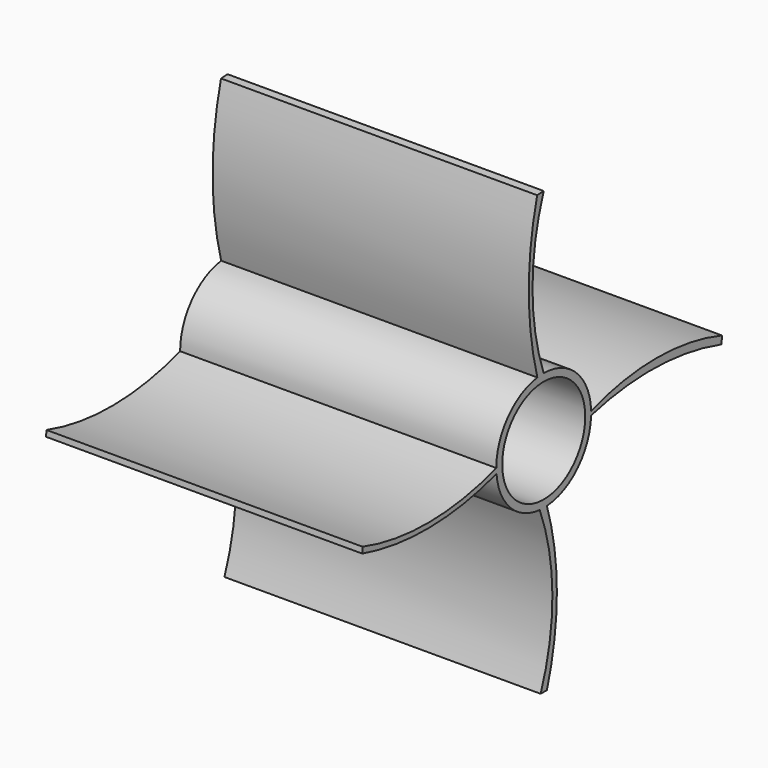
from build123d import *

# Parameters (mm, degrees)
F0_R      = 19.05
F1_DEPTH  = 101.6
F2_R      = 16.672802
F3_DEPTH  = 101.6
F5_DEPTH  = 101.6
F7_DEPTH  = 101.6
F9_DEPTH  = 101.6
F11_DEPTH = 101.6


with BuildPart() as f1:
    # F0 (on Right) → F1 (new body)
    with BuildSketch(Plane.YZ):
        Circle(F0_R)
    extrude(amount=F1_DEPTH)

    # F2 (on face) → F3 (cut)
    with BuildSketch(Plane.YZ.offset(101.6)):
        Circle(F2_R)
    extrude(amount=-F3_DEPTH, mode=Mode.SUBTRACT)

    # F4 (on face) → F5 (join)
    with BuildSketch(Plane(origin=(0, 0, 0), x_dir=(0, -1, 0), z_dir=(-1, 0, 0))):
        with BuildLine():
            Line((0, 19.05), (2.557494, 18.877545))
            ThreePointArc((2.557494, 18.877545), (5.998328, 44.666261), (2.622403, 70.463553))
            Line((2.622403, 70.463553), (0, 70.597149))
            ThreePointArc((0, 70.597149), (4.50405, 44.823575), (0, 19.05))
        make_face()
    extrude(amount=-F5_DEPTH)

    # F6 (on face) → F7 (join)
    with BuildSketch(Plane.YZ.offset(101.6)):
        with BuildLine():
            Line((-1.23902, -71.141139), (1.281651, -71.141139))
            ThreePointArc((1.281651, -71.141139), (5.279028, -45.073988), (1.281651, -19.006837))
            Line((1.281651, -19.006837), (-1.612408, -18.98164))
            ThreePointArc((-1.612408, -18.98164), (3.484779, -45.026237), (-1.23902, -71.141139))
        make_face()
    extrude(amount=-F7_DEPTH)

    # F8 (on face) → F9 (join)
    with BuildSketch(Plane(origin=(0, 0, 0), x_dir=(0, -1, 0), z_dir=(-1, 0, 0))):
        with BuildLine():
            Line((18.974914, 0), (18.974914, -1.689716))
            ThreePointArc((18.974914, -1.689716), (45.881311, -5.978723), (72.88587, -2.358837))
            Line((72.88587, -2.358837), (72.733122, -0.475401))
            ThreePointArc((72.733122, -0.475401), (45.817013, -4.422211), (18.974914, 0))
        make_face()
    extrude(amount=-F9_DEPTH)

    # F10 (on face) → F11 (join)
    with BuildSketch(Plane.YZ.offset(101.6)):
        with BuildLine():
            ThreePointArc((19.039206, -0.641189), (45.322797, 2.394132), (71.440637, -1.836555))
            Line((71.440637, -1.836555), (71.576953, 0.641189))
            ThreePointArc((71.576953, 0.641189), (45.30808, 4.934439), (19.039206, 0.641189))
            Line((19.039206, 0.641189), (19.039206, -0.641189))
        make_face()
    extrude(amount=-F11_DEPTH)


solid = f1.part
